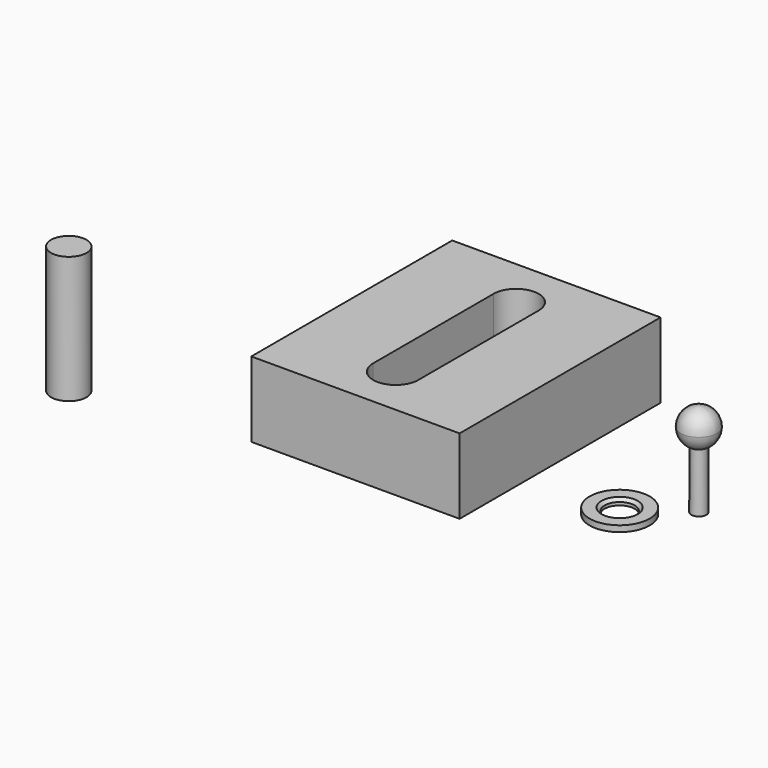
from build123d import *

# Parameters (mm, degrees)
F0_W     = 69.223456
F0_H     = 83.458752
F1_DEPTH = 25
F2_R     = 5.893838
F3_DEPTH = 42.22776
F6_R     = 10
F6_R_2   = 5
F7_DEPTH = 2
F8_SIZE  = 1


with BuildPart() as f1:
    # F0 (on Top) → F1 (new body)
    with BuildSketch(Plane.XY):
        Rectangle(F0_W, F0_H)
        with BuildLine():
            ThreePointArc((-7.5, 25), (0, 32.5), (7.5, 25))
            Line((7.5, 25), (7.5, 0))
            Line((7.5, 0), (7.5, -25))
            ThreePointArc((7.5, -25), (0, -32.5), (-7.5, -25))
            Line((-7.5, -25), (-7.5, 0))
            Line((-7.5, 0), (-7.5, 25))
        make_face(mode=Mode.SUBTRACT)
    extrude(amount=F1_DEPTH)


with BuildPart() as f3:
    # F2 (on Top) → F3 (new body)
    with BuildSketch(Plane.XY):
        with Locations((-89.559734, -48.856761)):
            Circle(F2_R)
    extrude(amount=F3_DEPTH)


with BuildPart() as f5:
    # F4 (on Front) → F5 (revolve)
    with BuildSketch(Plane.XZ):
        with BuildLine():
            Line((80.723566, 30.99992), (80.723566, 24.99992))
            Line((80.723566, 24.99992), (83.160326, 24.99992))
            Line((83.160326, 24.99992), (83.17418, 19.523197))
            ThreePointArc((83.17418, 19.523197), (85.758628, 21.736768), (86.723566, 24.99992))
            ThreePointArc((86.723566, 24.99992), (84.966207, 29.242561), (80.723566, 30.99992))
        make_face()
        with BuildLine():
            Line((83.160326, 24.99992), (80.723566, 24.99992))
            Line((80.723566, 24.99992), (80.723566, 18.99992))
            ThreePointArc((80.723566, 18.99992), (81.976496, 19.132197), (83.17418, 19.523197))
            Line((83.17418, 19.523197), (83.160326, 24.99992))
        make_face()
        with BuildLine():
            ThreePointArc((83.17418, 19.523197), (81.976496, 19.132197), (80.723566, 18.99992))
            Line((80.723566, 18.99992), (80.723566, 0))
            Line((80.723566, 0), (83.223566, 0))
            Line((83.223566, 0), (83.17418, 19.523197))
        make_face()
    revolve(axis=Axis((80.723566, 0, 15.49996), (0, 0, 1)))


with BuildPart() as f7:
    # F6 (on Top) → F7 (new body)
    with BuildSketch(Plane.XY):
        with Locations((65.466389, -13.815495)):
            Circle(F6_R)
        with Locations((65.466389, -13.815495)):
            Circle(F6_R_2, mode=Mode.SUBTRACT)
    extrude(amount=F7_DEPTH)

    # F8
    f8_edges = [f7.edges().sort_by_distance(p)[0] for p in [
        (60.466389, -13.815495, 2),
    ]]
    chamfer(f8_edges, length=F8_SIZE)


solid = Compound([f1.part, f3.part, f5.part, f7.part])
